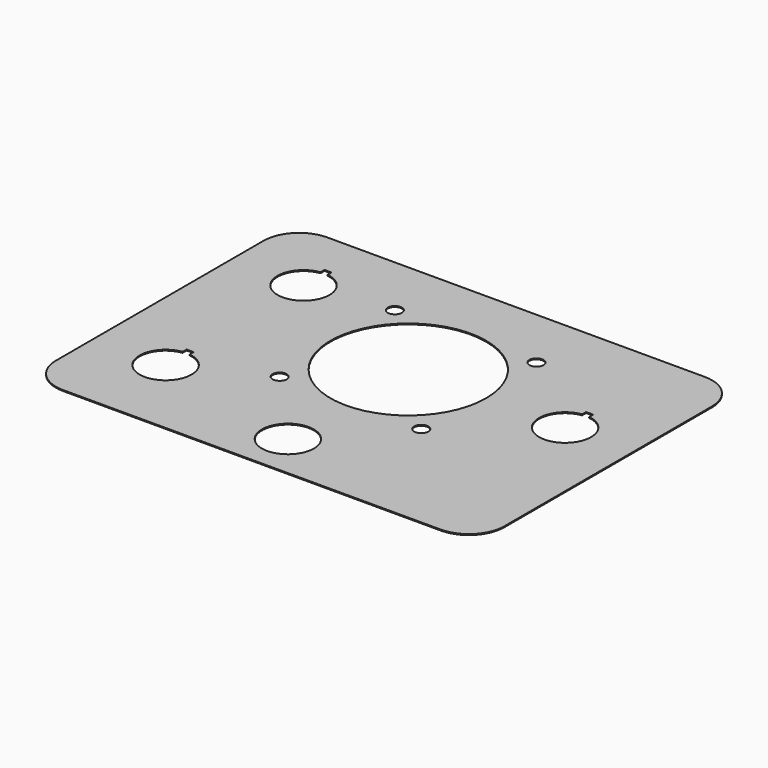
from build123d import *

# Parameters (mm, degrees)
F0_R     = 3
F0_R_2   = 11
F0_R_3   = 33
F1_DEPTH = 0.4


with BuildPart() as f1:
    # F0 (on Top) → F1 (new body)
    with BuildSketch(Plane.XY):
        with BuildLine():
            ThreePointArc((0, 15), (4.393398, 4.393398), (15, 0))
            Line((15, 0), (175, 0))
            ThreePointArc((175, 0), (185.606602, 4.393398), (190, 15))
            Line((190, 15), (190, 125))
            ThreePointArc((190, 125), (185.606602, 135.606602), (175, 140))
            Line((175, 140), (15, 140))
            ThreePointArc((15, 140), (4.393398, 135.606602), (0, 125))
            Line((0, 125), (0, 15))
        make_face()
        with BuildLine():
            ThreePointArc((31.8, 46.097247), (38.591562, 42.428416), (41.3, 35.2))
            ThreePointArc((41.3, 35.2), (23.071584, 26.908438), (28.8, 46.097247))
            Line((28.8, 46.097247), (28.8, 48.2))
            Line((28.8, 48.2), (30.3, 48.2))
            Line((30.3, 48.2), (31.8, 48.2))
            Line((31.8, 48.2), (31.8, 46.097247))
        make_face(mode=Mode.SUBTRACT)
        with Locations((65, 52.25)):
            Circle(F0_R, mode=Mode.SUBTRACT)
        with Locations((95, 19.1)):
            Circle(F0_R_2, mode=Mode.SUBTRACT)
        with Locations((125, 52.25)):
            Circle(F0_R, mode=Mode.SUBTRACT)
        with BuildLine():
            ThreePointArc((31.8, 119.147247), (38.591562, 115.478416), (41.3, 108.25))
            ThreePointArc((41.3, 108.25), (23.071584, 99.958438), (28.8, 119.147247))
            Line((28.8, 119.147247), (28.8, 121.25))
            Line((28.8, 121.25), (30.3, 121.25))
            Line((30.3, 121.25), (31.8, 121.25))
            Line((31.8, 121.25), (31.8, 119.147247))
        make_face(mode=Mode.SUBTRACT)
        with Locations((65, 113.25)):
            Circle(F0_R, mode=Mode.SUBTRACT)
        with Locations((95, 82.85365)):
            Circle(F0_R_3, mode=Mode.SUBTRACT)
        with BuildLine():
            ThreePointArc((163, 93.697247), (169.791562, 90.028416), (172.5, 82.8))
            ThreePointArc((172.5, 82.8), (154.271584, 74.508438), (160, 93.697247))
            Line((160, 93.697247), (160, 95.8))
            Line((160, 95.8), (161.5, 95.8))
            Line((161.5, 95.8), (163, 95.8))
            Line((163, 95.8), (163, 93.697247))
        make_face(mode=Mode.SUBTRACT)
        with Locations((125.002501, 113.25)):
            Circle(F0_R, mode=Mode.SUBTRACT)
    extrude(amount=F1_DEPTH)


solid = f1.part
